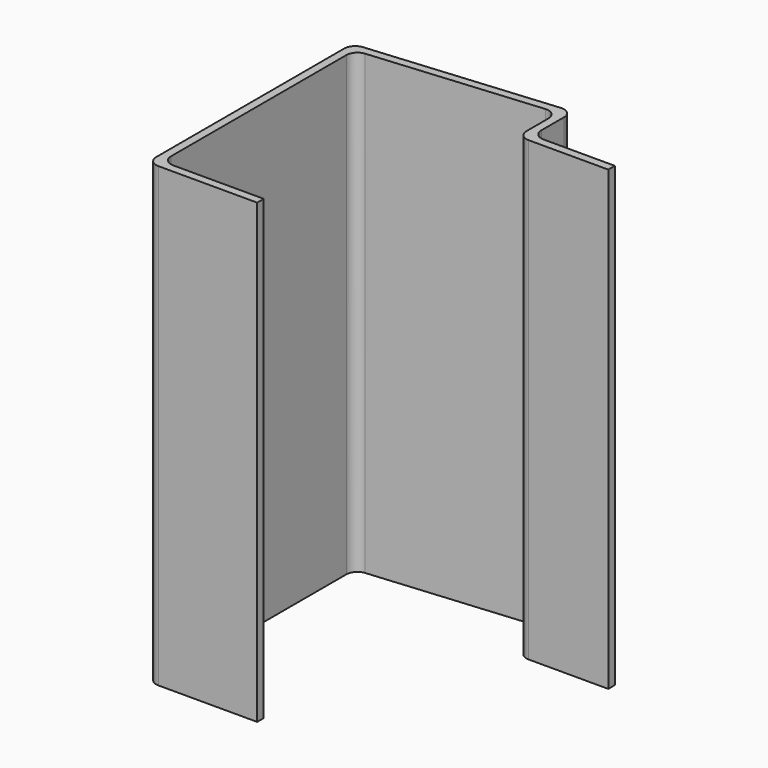
from build123d import *

# Parameters (mm, degrees)
F1_DEPTH = 250


with BuildPart() as f1:
    # F0 (on Top) → F1 (new body)
    with BuildSketch(Plane.XY):
        with BuildLine():
            Line((-54, 0), (0, 0))
            Line((0, 0), (0, 4.5))
            Line((0, 4.5), (-49.5, 4.5))
            ThreePointArc((-49.5, 4.5), (-53.742641, 6.257359), (-55.5, 10.5))
            Line((-55.5, 10.5), (-55.5, 130.388169))
            ThreePointArc((-55.5, 130.388169), (-53.925689, 134.439499), (-50.028906, 136.364811))
            Line((-50.028906, 136.364811), (41.971094, 144.506404))
            ThreePointArc((41.971094, 144.506404), (46.551331, 142.95545), (48.5, 138.529761))
            Line((48.5, 138.529761), (48.5, 123.5))
            ThreePointArc((48.5, 123.5), (50.257359, 119.257359), (54.5, 117.5))
            Line((54.5, 117.5), (98, 117.5))
            Line((98, 117.5), (98, 122))
            Line((98, 122), (59, 122))
            ThreePointArc((59, 122), (54.757359, 123.757359), (53, 128))
            Line((53, 128), (53, 143.445578))
            ThreePointArc((53, 143.445578), (51.051331, 147.871267), (46.471094, 149.422221))
            Line((46.471094, 149.422221), (-54.528906, 140.484168))
            ThreePointArc((-54.528906, 140.484168), (-58.425689, 138.558856), (-60, 134.507525))
            Line((-60, 134.507525), (-60, 6))
            ThreePointArc((-60, 6), (-58.242641, 1.757359), (-54, 0))
        make_face()
    extrude(amount=F1_DEPTH)


solid = f1.part
